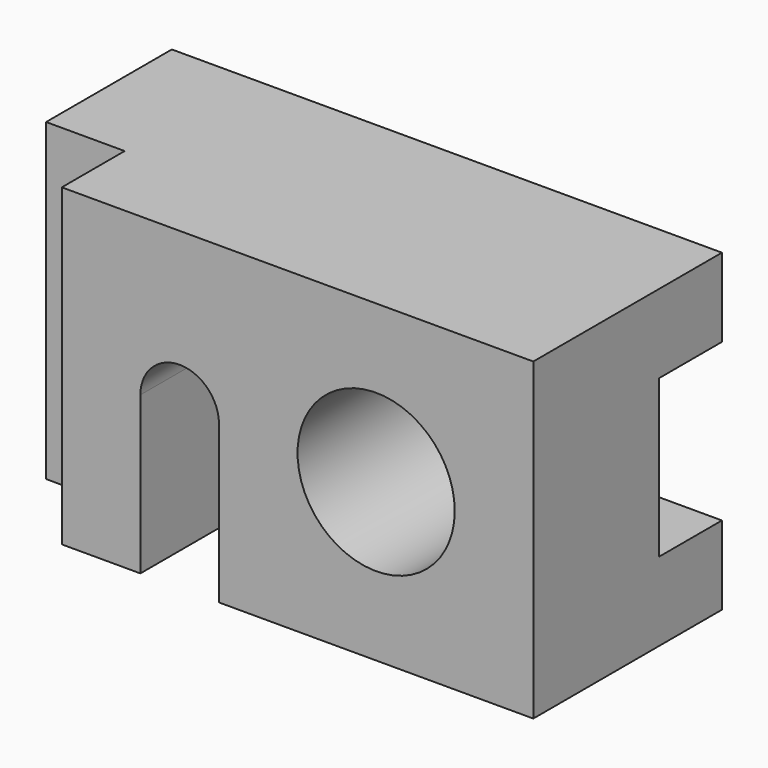
from build123d import *

# Parameters (mm, degrees)
F1_DEPTH = 101.6
F2_R     = 25.4
F3_DEPTH = 76.201
F4_W     = 25.4
F4_H     = 50.8
F5_DEPTH = 177.801


with BuildPart() as f1:
    # F0 (on Top) → F1 (new body)
    with BuildSketch(Plane.XY):
        Polygon((0, 25.4), (0, 0), (152.4, 0), (152.4, 76.2), (-25.4, 76.2), (-25.4, 25.4), align=None)
    extrude(amount=F1_DEPTH)

    # F2 (on face) → F3 (cut, through all)
    with BuildSketch(Plane.XZ):
        with BuildLine():
            Line((25.4, 50.8), (25.4, 0))
            Line((25.4, 0), (50.8, 0))
            Line((50.8, 0), (50.8, 50.8))
            ThreePointArc((50.8, 50.8), (38.1, 63.5), (25.4, 50.8))
        make_face()
        with Locations((101.6, 50.8)):
            Circle(F2_R)
    extrude(amount=-F3_DEPTH, mode=Mode.SUBTRACT)

    # F4 (on face) → F5 (cut, through all)
    with BuildSketch(Plane.YZ.offset(152.4)):
        with Locations((63.5, 50.8)):
            Rectangle(F4_W, F4_H)
    extrude(amount=-F5_DEPTH, mode=Mode.SUBTRACT)


solid = f1.part
